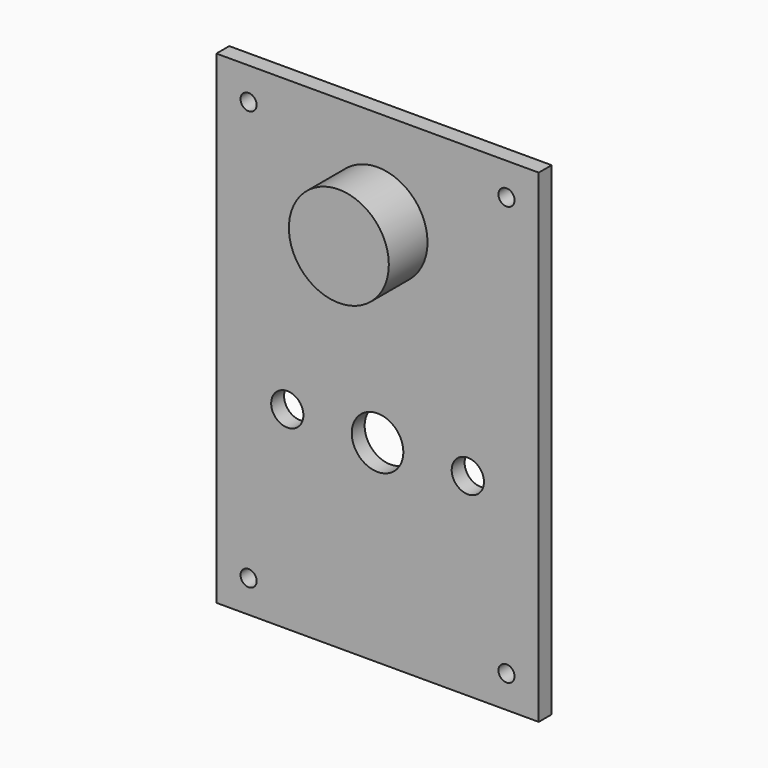
from build123d import *

# Parameters (mm, degrees)
F0_W     = 100
F0_H     = 150
F0_R     = 2.5
F0_R_2   = 5
F0_R_3   = 8
F1_DEPTH = 5
F2_R     = 15.5
F3_DEPTH = 20


with BuildPart() as f1:
    # F0 (on Front) → F1 (new body)
    with BuildSketch(Plane.XZ):
        with Locations((0, -5.555556)):
            Rectangle(F0_W, F0_H)
        with Locations((-40, -70.555556)):
            Circle(F0_R, mode=Mode.SUBTRACT)
        with Locations((-28, -20.555556)):
            Circle(F0_R_2, mode=Mode.SUBTRACT)
        with Locations((40, -70.555556)):
            Circle(F0_R, mode=Mode.SUBTRACT)
        with Locations((0, -20.555556)):
            Circle(F0_R_3, mode=Mode.SUBTRACT)
        with Locations((28, -20.555556)):
            Circle(F0_R_2, mode=Mode.SUBTRACT)
        with Locations((-40, 59.444444)):
            Circle(F0_R, mode=Mode.SUBTRACT)
        with Locations((40, 59.444444)):
            Circle(F0_R, mode=Mode.SUBTRACT)
    extrude(amount=F1_DEPTH)


with BuildPart() as f3:
    # F2 (on Front) → F3 (new body)
    with BuildSketch(Plane.XZ):
        with Locations((0, 39.17899)):
            Circle(F2_R)
    extrude(amount=F3_DEPTH)


solid = Compound([f1.part, f3.part])
